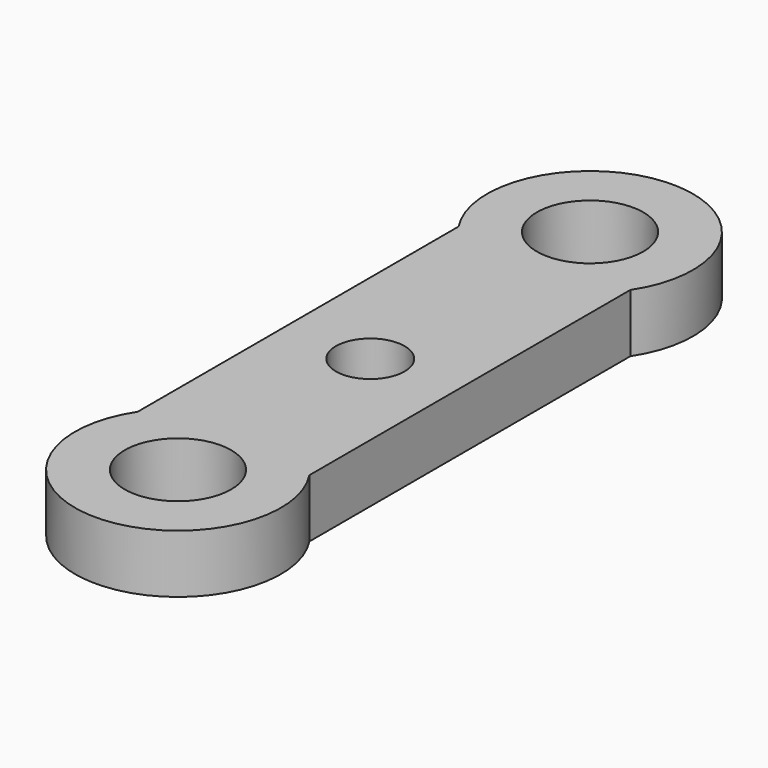
from build123d import *

# Parameters (mm, degrees)
CYLINDER010_R     = 1.55
CYLINDER010_DEPTH = 10
CYLINDER_R        = 1
CYLINDER_DEPTH    = 10
CYLINDER009_R     = 1.55
CYLINDER009_DEPTH = 10
CYLINDER011_R     = 3
CYLINDER011_DEPTH = 1.7
BOX_W             = 5
BOX_H             = 19
BOX_DEPTH         = 1.7
FILLET_R          = 1
CYLINDER012_R     = 3
CYLINDER012_DEPTH = 1.7


with BuildPart() as threadedhole006:
    # Cylinder010 → Cylinder010 (new body)
    with BuildSketch(Plane(origin=(0, 8, 0), x_dir=(1, 0, 0), z_dir=(0, 0, 1))):
        Circle(CYLINDER010_R)
    extrude(amount=CYLINDER010_DEPTH)


with BuildPart() as cylinder:
    # Cylinder → Cylinder (new body)
    with BuildSketch(Plane.XY):
        Circle(CYLINDER_R)
    extrude(amount=CYLINDER_DEPTH)


with BuildPart() as fusion005:
    # Cylinder009 → Cylinder009 (new body)
    with BuildSketch(Plane(origin=(0, -7, 0), x_dir=(1, 0, 0), z_dir=(0, 0, 1))):
        Circle(CYLINDER009_R)
    extrude(amount=CYLINDER009_DEPTH)

    # Fusion005: union ThreadedHole006, Cylinder
    add(threadedhole006.part)
    add(cylinder.part)


with BuildPart() as threadedhole007:
    # Cylinder011 → Cylinder011 (new body)
    with BuildSketch(Plane(origin=(0, 8, 0), x_dir=(1, 0, 0), z_dir=(0, 0, 1))):
        Circle(CYLINDER011_R)
    extrude(amount=CYLINDER011_DEPTH)


with BuildPart() as fillet_body:
    # Box → Box (new body)
    with BuildSketch(Plane(origin=(-2.5, -9, 0), x_dir=(1, 0, 0), z_dir=(0, 0, 1))):
        with Locations((2.5, 9.5)):
            Rectangle(BOX_W, BOX_H)
    extrude(amount=BOX_DEPTH)

    # Fillet
    fillet_edges = [fillet_body.edges().sort_by_distance(p)[0] for p in [
        (-2.5, -9, 0.85),
        (-2.5, 10, 0.85),
        (2.5, -9, 0.85),
        (2.5, 10, 0.85),
    ]]
    fillet(fillet_edges, radius=FILLET_R)


with BuildPart() as model_cut:
    # Cylinder012 → Cylinder012 (new body)
    with BuildSketch(Plane(origin=(0, -7, 0), x_dir=(1, 0, 0), z_dir=(0, 0, 1))):
        Circle(CYLINDER012_R)
    extrude(amount=CYLINDER012_DEPTH)

    # Fusion: union ThreadedHole007, Fillet body
    add(threadedhole007.part)
    add(fillet_body.part)

    # Cut: cut Fusion005
    add(fusion005.part, mode=Mode.SUBTRACT)


solid = model_cut.part
